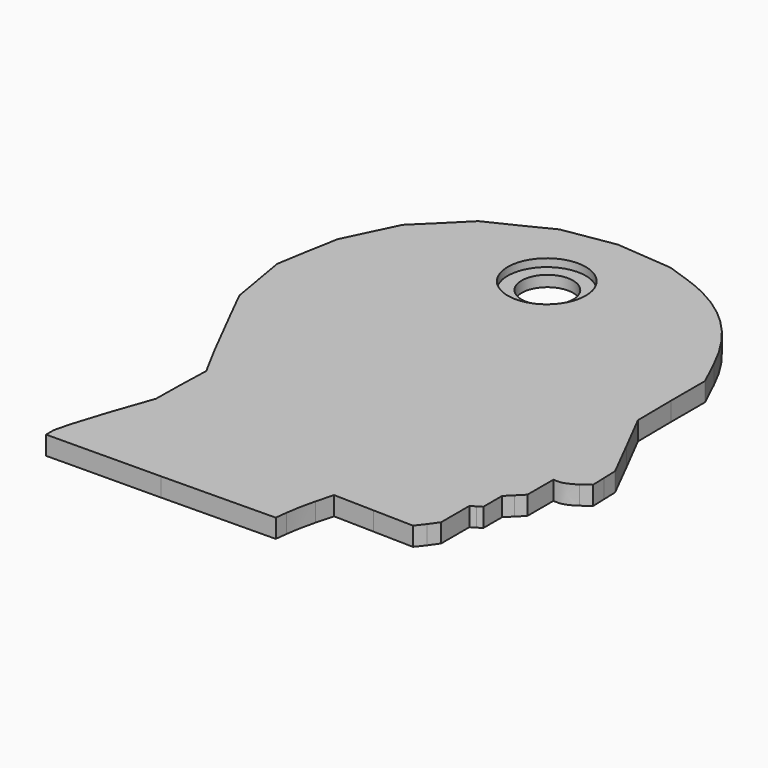
from build123d import *

# Parameters (mm, degrees)
PAD007_DEPTH    = 1.2
SKETCH024_R     = 1.65
POCKET008_DEPTH = 2
SKETCH027_R     = 2.5
POCKET009_DEPTH = 0.5


with BuildPart() as part:
    # Sketch023 → Pad007 (new body)
    with BuildSketch(Plane.XY):
        with BuildLine():
            add(Edge.make_bspline(
                [(-42.6694, -0.803536), (-44.3258, -1.0746)],
                knots=[0, 0, 1, 1], degree=1))
            add(Edge.make_bspline(
                [(-44.3258, -1.0746), (-46.1933, -2.00829)],
                knots=[0, 0, 1, 1], degree=1))
            add(Edge.make_bspline(
                [(-46.1933, -2.00829), (-48.0606, -2.91193)],
                knots=[0, 0, 1, 1], degree=1))
            add(Edge.make_bspline(
                [(-48.0606, -2.91193), (-49.416, -4.2673)],
                knots=[0, 0, 1, 1], degree=1))
            add(Edge.make_bspline(
                [(-49.416, -4.2673), (-50.7713, -5.59253)],
                knots=[0, 0, 1, 1], degree=1))
            add(Edge.make_bspline(
                [(-50.7713, -5.59253), (-51.5546, -7.21901)],
                knots=[0, 0, 1, 1], degree=1))
            add(Edge.make_bspline(
                [(-51.5546, -7.21901), (-52.3375, -8.84539)],
                knots=[0, 0, 1, 1], degree=1))
            add(Edge.make_bspline(
                [(-52.3375, -8.84539), (-52.6991, -10.8332)],
                knots=[0, 0, 1, 1], degree=1))
            add(Edge.make_bspline(
                [(-52.6991, -10.8332), (-53.0303, -12.821)],
                knots=[0, 0, 1, 1], degree=1))
            add(Edge.make_bspline(
                [(-53.0303, -12.821), (-52.6991, -14.7486)],
                knots=[0, 0, 1, 1], degree=1))
            add(Edge.make_bspline(
                [(-52.6991, -14.7486), (-52.3677, -16.6761)],
                knots=[0, 0, 1, 1], degree=1))
            add(Edge.make_bspline(
                [(-52.3677, -16.6761), (-51.4942, -18.4232)],
                knots=[0, 0, 1, 1], degree=1))
            add(Edge.make_bspline(
                [(-51.4942, -18.4232), (-51.0125, -19.4171), (-50.169, -21.0738), (-49.5969, -22.1579)],
                knots=[0, 0, 0, 0, 1, 1, 1, 1], degree=3))
            add(Edge.make_bspline(
                [(-49.5969, -22.1579), (-48.5426, -24.1156)],
                knots=[0, 0, 1, 1], degree=1))
            add(Edge.make_bspline(
                [(-48.5426, -24.1156), (-48.6029, -26.0735)],
                knots=[0, 0, 1, 1], degree=1))
            add(Edge.make_bspline(
                [(-48.6029, -26.0735), (-48.633, -28.0312)],
                knots=[0, 0, 1, 1], degree=1))
            add(Edge.make_bspline(
                [(-48.633, -28.0312), (-49.5666, -30.7118)],
                knots=[0, 0, 1, 1], degree=1))
            add(Edge.make_bspline(
                [(-49.5666, -30.7118), (-50.0786, -32.2177), (-50.5003, -33.6636), (-50.5003, -33.9647)],
                knots=[0, 0, 0, 0, 1, 1, 1, 1], degree=3))
            add(Edge.make_bspline(
                [(-50.5003, -33.9647), (-50.5003, -34.5068)],
                knots=[0, 0, 1, 1], degree=1))
            add(Edge.make_bspline(
                [(-50.5003, -34.5068), (-43.1814, -34.4466)],
                knots=[0, 0, 1, 1], degree=1))
            add(Edge.make_bspline(
                [(-43.1814, -34.4466), (-35.8925, -34.3562)],
                knots=[0, 0, 1, 1], degree=1))
            add(Edge.make_bspline(
                [(-35.8925, -34.3562), (-35.8022, -33.6033)],
                knots=[0, 0, 1, 1], degree=1))
            add(Edge.make_bspline(
                [(-35.8022, -33.6033), (-35.7719, -33.1816), (-35.5913, -32.3382), (-35.4407, -31.7358)],
                knots=[0, 0, 0, 0, 1, 1, 1, 1], degree=3))
            add(Edge.make_bspline(
                [(-35.4407, -31.7358), (-35.1396, -30.6215)],
                knots=[0, 0, 1, 1], degree=1))
            add(Edge.make_bspline(
                [(-35.1396, -30.6215), (-32.5493, -30.6816)],
                knots=[0, 0, 1, 1], degree=1))
            add(Edge.make_bspline(
                [(-32.5493, -30.6816), (-29.989, -30.7419)],
                knots=[0, 0, 1, 1], degree=1))
            add(Edge.make_bspline(
                [(-29.989, -30.7419), (-29.5373, -30.1696)],
                knots=[0, 0, 1, 1], degree=1))
            add(Edge.make_bspline(
                [(-29.5373, -30.1696), (-29.1158, -29.5673)],
                knots=[0, 0, 1, 1], degree=1))
            add(Edge.make_bspline(
                [(-29.1158, -29.5673), (-29.1158, -28.4529)],
                knots=[0, 0, 1, 1], degree=1))
            add(Edge.make_bspline(
                [(-29.1158, -28.4529), (-29.1158, -27.3083)],
                knots=[0, 0, 1, 1], degree=1))
            add(Edge.make_bspline(
                [(-29.1158, -27.3083), (-28.8144, -27.1275)],
                knots=[0, 0, 1, 1], degree=1))
            add(Edge.make_bspline(
                [(-28.8144, -27.1275), (-28.5133, -26.9469)],
                knots=[0, 0, 1, 1], degree=1))
            add(Edge.make_bspline(
                [(-28.5133, -26.9469), (-28.5133, -26.194)],
                knots=[0, 0, 1, 1], degree=1))
            add(Edge.make_bspline(
                [(-28.5133, -26.194), (-28.5133, -25.4409)],
                knots=[0, 0, 1, 1], degree=1))
            add(Edge.make_bspline(
                [(-28.5133, -25.4409), (-28.0615, -24.9893)],
                knots=[0, 0, 1, 1], degree=1))
            add(Edge.make_bspline(
                [(-28.0615, -24.9893), (-27.6097, -24.5374)],
                knots=[0, 0, 1, 1], degree=1))
            add(Edge.make_bspline(
                [(-27.6097, -24.5374), (-27.6097, -23.4833)],
                knots=[0, 0, 1, 1], degree=1))
            add(Edge.make_bspline(
                [(-27.6097, -23.4833), (-27.6097, -22.4591)],
                knots=[0, 0, 1, 1], degree=1))
            add(Edge.make_bspline(
                [(-27.6097, -22.4591), (-27.2181, -22.4591)],
                knots=[0, 0, 1, 1], degree=1))
            add(Edge.make_bspline(
                [(-27.2181, -22.4591), (-27.0074, -22.4591), (-26.5857, -22.2785), (-26.2543, -22.0375)],
                knots=[0, 0, 0, 0, 1, 1, 1, 1], degree=3))
            add(Edge.make_bspline(
                [(-26.2543, -22.0375), (-25.7121, -21.6458)],
                knots=[0, 0, 1, 1], degree=1))
            add(Edge.make_bspline(
                [(-25.7121, -21.6458), (-25.7423, -20.7422)],
                knots=[0, 0, 1, 1], degree=1))
            add(Edge.make_bspline(
                [(-25.7423, -20.7422), (-25.7723, -19.8086)],
                knots=[0, 0, 1, 1], degree=1))
            add(Edge.make_bspline(
                [(-25.7723, -19.8086), (-27.0374, -17.3087)],
                knots=[0, 0, 1, 1], degree=1))
            add(Edge.make_bspline(
                [(-27.0374, -17.3087), (-28.3325, -14.7786)],
                knots=[0, 0, 1, 1], degree=1))
            add(Edge.make_bspline(
                [(-28.3325, -14.7786), (-28.3626, -12.068)],
                knots=[0, 0, 1, 1], degree=1))
            add(Edge.make_bspline(
                [(-28.3626, -12.068), (-28.3626, -9.35744)],
                knots=[0, 0, 1, 1], degree=1))
            add(Edge.make_bspline(
                [(-28.3626, -9.35744), (-29.176, -7.64057)],
                knots=[0, 0, 1, 1], degree=1))
            add(Edge.make_bspline(
                [(-29.176, -7.64057), (-30.682, -4.44797), (-32.8203, -2.42997), (-35.8323, -1.37582)],
                knots=[0, 0, 0, 0, 1, 1, 1, 1], degree=3))
            add(Edge.make_bspline(
                [(-35.8323, -1.37582), (-37.3984, -0.833671)],
                knots=[0, 0, 1, 1], degree=1))
            add(Edge.make_bspline(
                [(-37.3984, -0.833671), (-39.2056, -0.683074)],
                knots=[0, 0, 1, 1], degree=1))
            add(Edge.make_bspline(
                [(-39.2056, -0.683074), (-41.0128, -0.532468)],
                knots=[0, 0, 1, 1], degree=1))
            add(Edge.make_bspline(
                [(-41.0128, -0.532468), (-42.6694, -0.803536)],
                knots=[0, 0, 1, 1], degree=1))
        make_face()
    extrude(amount=PAD007_DEPTH)

    # Sketch024 (on Face55 of Pad007) → Pocket008 (cut)
    with BuildSketch(Plane.XY.offset(1.2)):
        with Locations((-41.29277, -5.835361)):
            Circle(SKETCH024_R)
    extrude(amount=-POCKET008_DEPTH, mode=Mode.SUBTRACT)

    # Sketch027 (on Face5 of Pocket008) → Pocket009 (cut)
    with BuildSketch(Plane.XY.offset(1.2)):
        with Locations((-41.308281, -5.86481)):
            Circle(SKETCH027_R)
    extrude(amount=-POCKET009_DEPTH, mode=Mode.SUBTRACT)


solid = part.part
